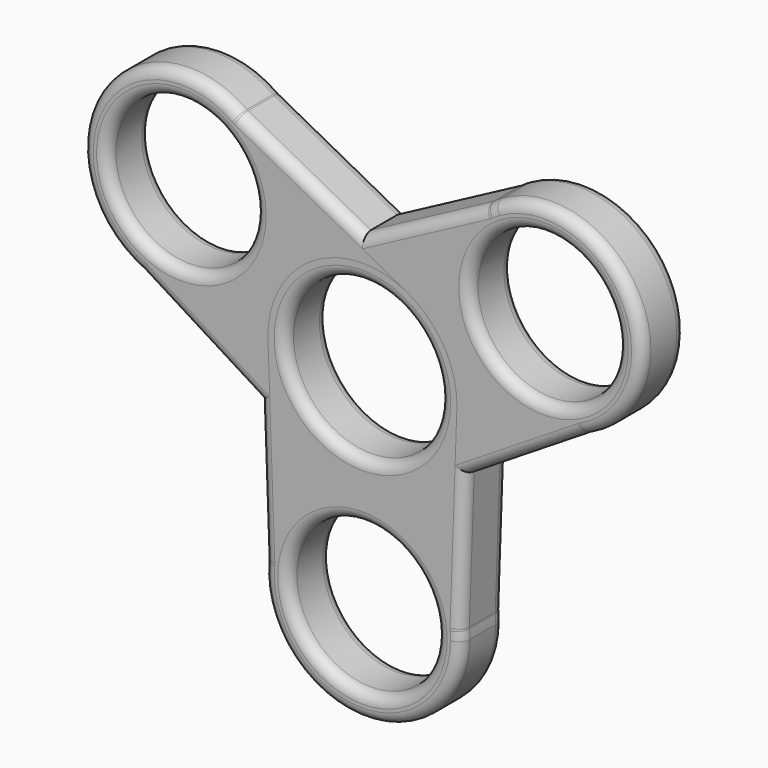
from build123d import *

# Parameters (mm, degrees)
F0_R     = 34.9056757034
F0_R_2   = 36.547824198
F1_DEPTH = 25.4
F2_COUNT = 3
F3_R     = 5.08
F3_2_R   = 5.08
F3_3_R   = 5.08


with BuildPart() as f1:
    # F0 (on Front) → F1 (new body)
    with BuildSketch(Plane.XZ):
        with BuildLine():
            ThreePointArc((46.3813083608, -93.9126231618), (-0.0192916995, -52.0099998884), (-46.3851971316, -93.9510100884))
            ThreePointArc((-46.3851971316, -93.9510100884), (-2.3427808099, -145.1924058564), (46.6206559347, -98.6306518316))
            ThreePointArc((46.6206559347, -98.6306518316), (46.560780592, -96.2686038965), (46.3813083608, -93.9126231618))
        make_face()
        with Locations((0, -98.6306518316)):
            Circle(F0_R, mode=Mode.SUBTRACT)
        with BuildLine():
            ThreePointArc((49.6199386587, -1.7435412123), (49.6429051328, -0.8719050568), (49.6505614113, 0))
            ThreePointArc((49.6505614113, 0), (-0.8704970211, 49.642929843), (-49.620037484, -1.7407264417))
            ThreePointArc((-49.620037484, -1.7407264417), (-0.0014082525, -49.6505613913), (49.6199386587, -1.7435412123))
        make_face()
        Circle(F0_R_2, mode=Mode.SUBTRACT)
        with BuildLine():
            ThreePointArc((49.6199386587, -1.7435412123), (-0.0014082525, -49.6505613913), (-49.620037484, -1.7407264417))
            Line((-49.620037484, -1.7407264417), (-46.3851971316, -93.9510100884))
            ThreePointArc((-46.3851971316, -93.9510100884), (-0.0192916995, -52.0099998884), (46.3813083608, -93.9126231618))
            Line((46.3813083608, -93.9126231618), (49.6199386587, -1.7435412123))
        make_face()
    extrude(amount=F1_DEPTH)


with BuildPart() as f2_1:
    # F2: instance of F1
    add(f1.part.rotate(Axis((0, -25.4, 0), (0, -1, 0)), 1 * 360 / F2_COUNT))

    # F3#2
    f3_2_edges = [f2_1.edges().sort_by_distance(p)[0] for p in [
        (102.869488, 0, 19.086124),
        (-23.300018, -12.7, 43.843898),
        (26.317532, -12.7, -42.10185),
        (-42.999352, 0, -24.824061),
        (-42.999352, -25.4, -24.824061),
        (18.273912, 0, -31.651344),
        (104.55656, -12.7, 6.804746),
        (65.437046, 0, -17.648552),
        (65.437046, -25.4, -17.648552),
        (17.420022, 0, 65.4838),
        (125.781673, 0, 72.642359),
        (17.420022, -25.4, 65.4838),
        (-18.273912, -12.7, 31.651344),
        (18.273912, -25.4, -31.651344),
        (58.140063, -12.7, 87.123703),
        (102.869488, -25.4, 19.086124),
        (125.781673, -25.4, 72.642359),
        (67.963812, -12.7, 79.544528),
    ]]
    fillet(f3_2_edges, radius=F3_2_R)


with BuildPart() as f2_2:
    # F2: instance of F1
    add(f1.part.rotate(Axis((0, -25.4, 0), (0, -1, 0)), 2 * 360 / F2_COUNT))

    # F3
    f3_edges = [f2_2.edges().sort_by_distance(p)[0] for p in [
        (-67.963812, 0, 79.544528),
        (-125.800965, 0, 72.608945),
        (-125.800965, -25.4, 72.608945),
        (-17.434429, 0, 65.49442),
        (-26.31992, -12.7, -42.100357),
        (18.273912, -25.4, 31.651344),
        (42.997943, -25.4, -24.8265),
        (-67.963812, -25.4, 79.544528),
        (-104.521372, -12.7, 6.78892),
        (23.302505, -12.7, 43.842576),
        (-58.171363, -12.7, 87.146264),
        (-17.434429, -25.4, 65.49442),
        (-102.869488, -12.7, 19.086124),
        (-65.420646, 0, -17.655718),
        (42.997943, 0, -24.8265),
        (18.273912, 0, 31.651344),
        (-18.273912, -12.7, -31.651344),
        (-65.420646, -25.4, -17.655718),
    ]]
    fillet(f3_edges, radius=F3_R)


with BuildPart() as f1_1:
    add(f1.part)

    # F3#3
    f3_3_edges = [f1_1.edges().sort_by_distance(p)[0] for p in [
        (34.905676, -12.7, -98.630652),
        (-34.905676, 0, -98.630652),
        (-34.905676, -25.4, -98.630652),
        (-49.620037, -12.7, -1.740726),
        (49.619939, -12.7, -1.743541),
        (0.001408, 0, 49.650561),
        (0.001408, -25.4, 49.650561),
        (46.381308, -12.7, -93.912623),
        (-36.547824, 0, 0),
        (-36.547824, -25.4, 0),
        (48.000624, 0, -47.828082),
        (0.019292, -25.4, -145.251304),
        (48.000624, -25.4, -47.828082),
        (-48.002617, -25.4, -47.845868),
        (-48.002617, 0, -47.845868),
        (-46.385197, -12.7, -93.95101),
        (0.019292, 0, -145.251304),
        (36.547824, -12.7, 0),
    ]]
    fillet(f3_3_edges, radius=F3_3_R)


solid = Compound([f2_1.part, f2_2.part, f1_1.part])
